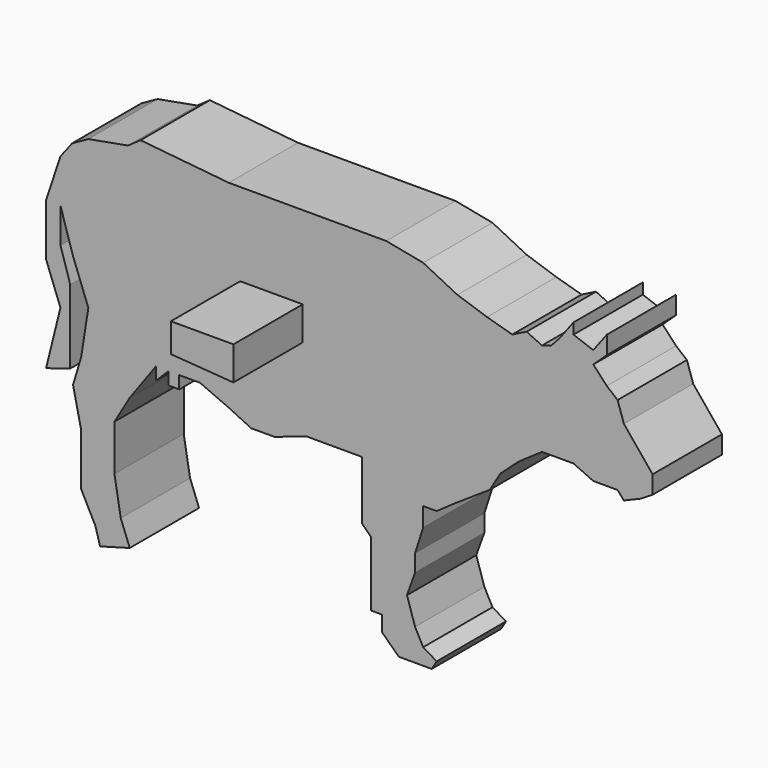
from build123d import *

# Parameters (mm, degrees)
F1_DEPTH = 12.7
F3_DEPTH = 12.7


with BuildPart() as f1:
    # F0 (on Front) → F1 (new body)
    with BuildSketch(Plane.XZ):
        Polygon((-28.615356, 25.77387), (-30.462335, 24.485242), (-36.267126, 23.429823), (-38.641814, 22.110556), (-40.356866, 19.867797), (-42.461474, 13.535295), (-42.461474, 5.883527), (-40.356866, 0.342589), (-42.461474, -8.147422), (-38.919031, -7.045326), (-38.919031, -0.844754), (-38.919031, 3.768534), (-40.356866, 8.39014), (-40.356866, 13.535295), (-38.509885, 7.598579), (-36.267126, 1.66186), (-37.322543, -5.06642), (-38.509885, -9.024232), (-37.322543, -14.433242), (-37.322543, -22.085012), (-35.219288, -26.17475), (-34.552074, -28.573201), (-30.19848, -27.362095), (-31.517752, -23.931991), (-32.441241, -18.522981), (-32.441241, -11.794701), (-30.19848, -7.968816), (-26.372596, -2.691734), (-26.372596, -4.538711), (-24.525617, -2.691734), (-24.525617, -4.538711), (-22.942492, -4.538711), (-22.942492, -2.691734), (-19.90817, -2.691734), (-15.686504, -4.538711), (-12.388325, -6.121836), (-8.958223, -6.121836), (-4.340774, -4.538711), (0.012816, -4.538711), (3.838704, -4.538711), (3.838704, -7.968816), (3.838704, -13.113971), (5.157971, -14.433242), (5.157971, -18.522981), (5.157971, -23.931991), (6.741096, -23.931991), (6.741096, -26.17475), (9.24771, -28.573201), (14.061987, -28.573201), (14.788651, -27.362095), (12.809743, -26.17475), (11.6224, -23.931991), (10.435057, -20.238034), (11.6224, -16.939856), (11.6224, -14.433242), (12.809743, -10.739285), (12.809743, -7.968816), (14.788651, -7.968816), (17.427192, -6.121836), (19.801878, -4.538711), (22.572347, -2.691734), (24.155469, -0.053193), (26.79401, 2.321497), (30.224116, 4.696183), (32.862657, 4.696183), (34.841561, 4.696183), (37.743957, 3.376913), (41.30599, 3.376913), (42.229482, 2.321497), (44.736096, 3.376913), (46.438526, 4.432328), (46.438526, 7.07087), (42.229482, 12.216028), (41.30599, 14.986497), (39.722868, 16.296333), (37.743957, 18.416595), (39.722868, 20.263579), (39.722868, 22.90212), (37.743957, 20.263579), (34.841561, 21.318991), (34.841561, 22.90212), (32.862657, 20.263579), (31.543382, 18.812377), (30.224116, 18.416595), (27.981357, 19.472015), (25.870525, 18.416595), (22.176565, 19.472015), (17.822974, 20.923209), (12.809743, 23.429823), (7.400733, 24.485242), (0.144743, 24.485242), (-8.298586, 24.485242), (-15.686504, 24.485242), align=None)
    extrude(amount=F1_DEPTH)

    # F2 (on face) → F3 (join)
    with BuildSketch(Plane.XZ.offset(12.7)):
        Polygon((-14.009252, 12.325057), (-14.009252, 8.07736), (-4.843168, 7.406671), (-4.843168, 12.325057), align=None)
    extrude(amount=F3_DEPTH)


solid = f1.part
